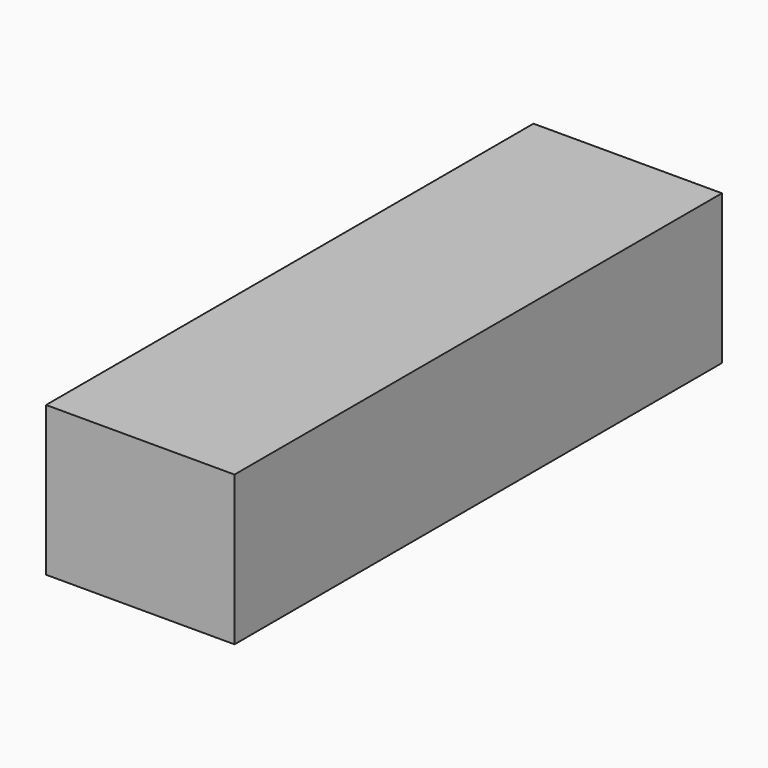
from build123d import *

# Parameters (mm, degrees)
F1_W      = 381
F1_H      = 381
F2_DEPTH  = 302.26
F2_FACE_W = 381
F2_FACE_H = 302.26
F3_DEPTH  = 850.9


with BuildPart() as f2:
    # F1 (on face) → F2 (new body)
    with BuildSketch(Plane.XY):
        with Locations((190.5, 190.5)):
            Rectangle(F1_W, F1_H)
    extrude(amount=F2_DEPTH)

    # F2_face (on face) → F3 (join)
    with BuildSketch(Plane(origin=(190.5, 0, 151.13), x_dir=(1, 0, 0), z_dir=(0, -1, 0))):
        Rectangle(F2_FACE_W, F2_FACE_H)
    extrude(amount=F3_DEPTH)


solid = f2.part
